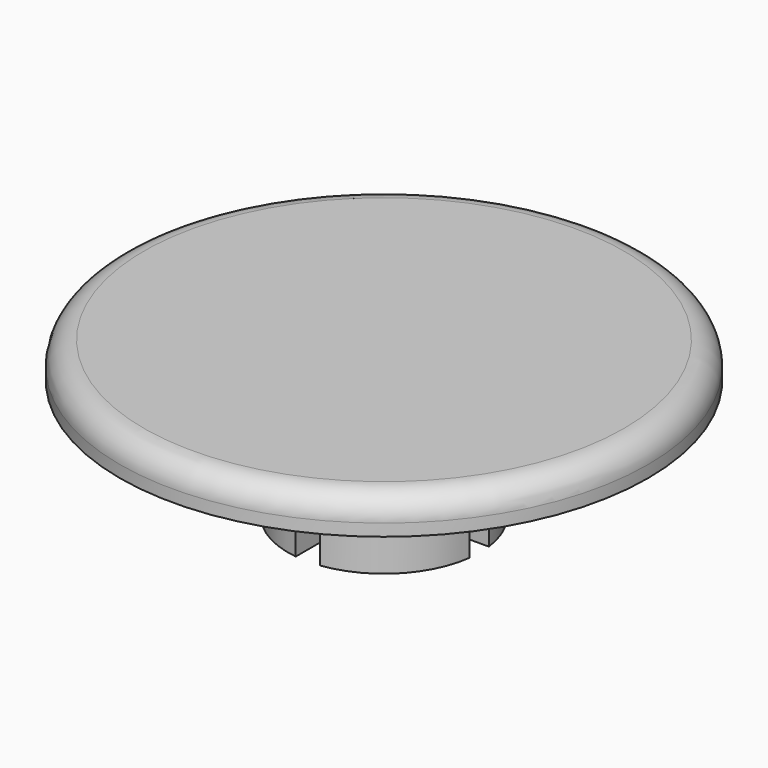
from build123d import *

# Parameters (mm, degrees)
F3_DEPTH = 3
F4_R     = 1


with BuildPart() as f1:
    # F0 (on Front) → F1 (revolve)
    with BuildSketch(Plane.XZ):
        Polygon((0, 6.5), (0, 0), (4, 0), (4, 3), (5, 3), (5, 5), (11, 5), (11, 6.5), align=None)
    revolve(axis=Axis((0, 0, 5.302473), (0, 0, 1)))

    # F2 (on face) → F3 (cut, through all)
    with BuildSketch(Plane(origin=(0, 0, 0), x_dir=(1, 0, 0), z_dir=(0, 0, -1))):
        Polygon((-0.5, -6.403249), (0.5, -6.403249), (0.5, -0.5), (5.621079, -0.5), (5.621079, 0.5), (0.5, 0.5), (0.5, 6.403249), (-0.5, 6.403249), (-0.5, 0.5), (-5.621079, 0.5), (-5.621079, -0.5), (-0.5, -0.5), align=None)
    extrude(amount=-F3_DEPTH, mode=Mode.SUBTRACT)

    # F4
    f4_edges = [f1.edges().sort_by_distance(p)[0] for p in [
        (-11, 0, 6.5),
    ]]
    fillet(f4_edges, radius=F4_R)


solid = f1.part
